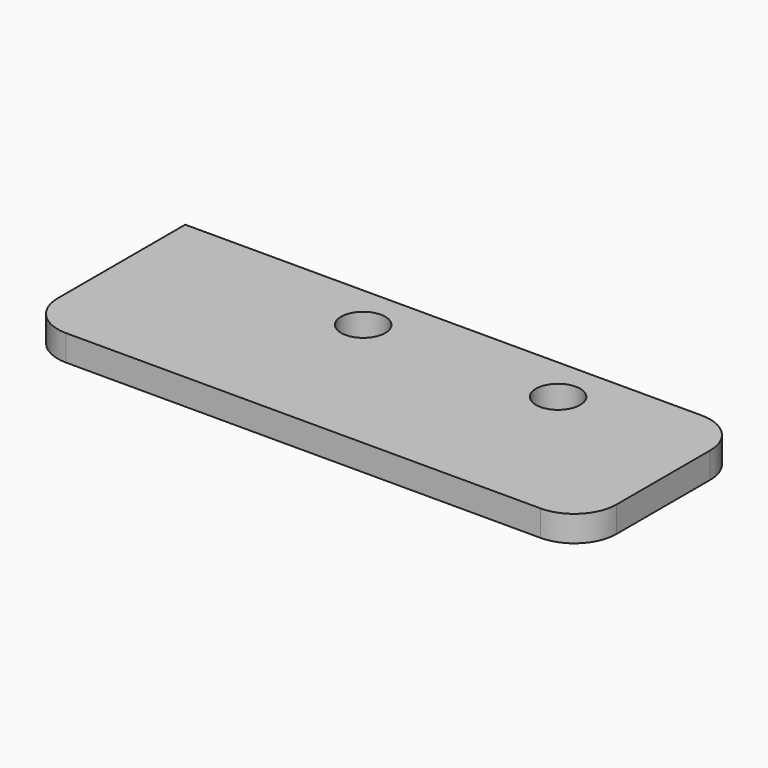
from build123d import *

# Parameters (mm, degrees)
CYLINDER058_R     = 1.7
CYLINDER058_DEPTH = 2
CYLINDER057_R     = 1.7
CYLINDER057_DEPTH = 2
BOX020_W          = 43
BOX020_H          = 15.5
BOX020_DEPTH      = 2
FILLET007_R       = 3.24


with BuildPart() as cylinder058:
    # Cylinder058 → Cylinder058 (new body)
    with BuildSketch(Plane(origin=(24.5, 21, 23), x_dir=(1, 0, 0), z_dir=(0, 0, 1))):
        Circle(CYLINDER058_R)
    extrude(amount=CYLINDER058_DEPTH)


with BuildPart() as obj1:
    # Cylinder057 → Cylinder057 (new body)
    with BuildSketch(Plane(origin=(9.5, 21, 23), x_dir=(1, 0, 0), z_dir=(0, 0, 1))):
        Circle(CYLINDER057_R)
    extrude(amount=CYLINDER057_DEPTH)


with BuildPart() as belt_cover:
    # Box020 → Box020 (new body)
    with BuildSketch(Plane(origin=(-7, 9, 23), x_dir=(1, 0, 0), z_dir=(0, 0, 1))):
        with Locations((21.5, 7.75)):
            Rectangle(BOX020_W, BOX020_H)
    extrude(amount=BOX020_DEPTH)

    # Cut043: cut obj1
    add(obj1.part, mode=Mode.SUBTRACT)

    # Cut044: cut Cylinder058
    add(cylinder058.part, mode=Mode.SUBTRACT)

    # Fillet007
    fillet007_edges = [belt_cover.edges().sort_by_distance(p)[0] for p in [
        (-7, 9, 24),
        (36, 9, 24),
        (36, 24.5, 24),
    ]]
    fillet(fillet007_edges, radius=FILLET007_R)


solid = belt_cover.part
